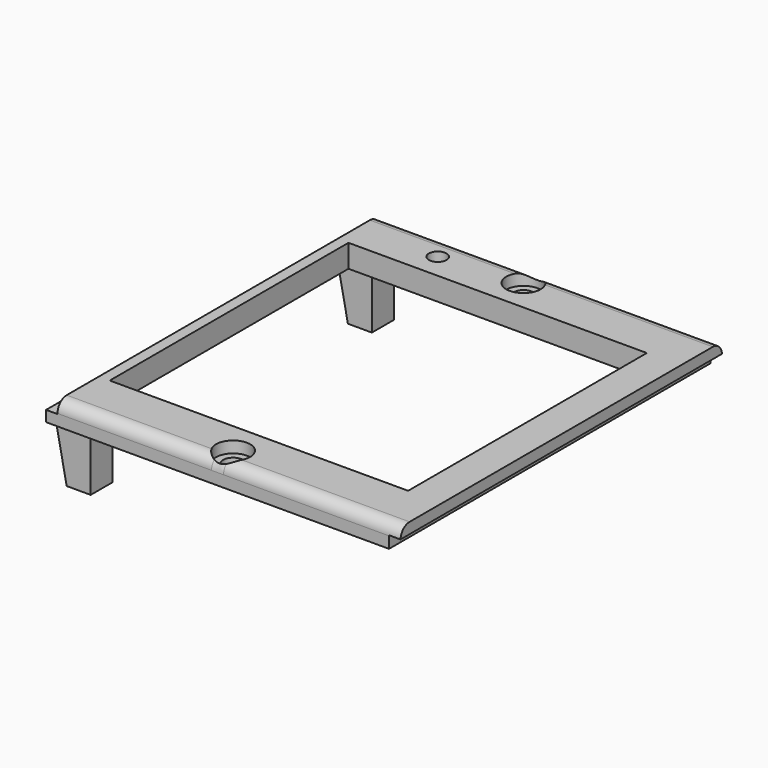
from build123d import *

# Parameters (mm, degrees)
SKETCH077_W          = 62
SKETCH077_H          = 70.3
SKETCH077_R          = 1.75
SKETCH077_R_2        = 1.55
SKETCH077_W_2        = 52.2
SKETCH077_H_2        = 52.2
PAD021_DEPTH         = 4
FILLET009_R          = 2
SKETCH078_W          = 2
SKETCH078_H          = 2.1
POCKET050_DEPTH      = 35.151
POCKET050_DEPTH_BACK = 35.151
SKETCH079_R          = 3
POCKET028_DEPTH      = 2.001
SKETCH081_W          = 4.202
SKETCH081_H          = 4.8
PAD023_DEPTH         = 10
CHAMFER003_SIZE2     = 9.99
CHAMFER003_SIZE      = 1.99


with BuildPart() as part:
    # Sketch077 → Pad021 (new body)
    with BuildSketch(Plane.XY):
        with Locations((1, 0)):
            Rectangle(SKETCH077_W, SKETCH077_H)
        with Locations((0, 31.75)):
            Circle(SKETCH077_R, mode=Mode.SUBTRACT)
        with Locations((0, -31.75)):
            Circle(SKETCH077_R, mode=Mode.SUBTRACT)
        with Locations((-14, 30.5)):
            Circle(SKETCH077_R_2, mode=Mode.SUBTRACT)
        Rectangle(SKETCH077_W_2, SKETCH077_H_2, mode=Mode.SUBTRACT)
    extrude(amount=PAD021_DEPTH)

    # Fillet009
    fillet009_edges = [part.edges().sort_by_distance(p)[0] for p in [
        (1, 35.15, 4),
        (1, -35.15, 4),
    ]]
    fillet(fillet009_edges, radius=FILLET009_R)

    # Sketch078 → Pocket050 (cut, two sides)
    with BuildSketch(Plane.XZ) as pocket050_sk:
        with Locations((-29, 2.95)):
            Rectangle(SKETCH078_W, SKETCH078_H)
        with Locations((31, 1.05)):
            Rectangle(SKETCH078_W, SKETCH078_H)
    extrude(amount=-POCKET050_DEPTH, mode=Mode.SUBTRACT)
    extrude(pocket050_sk.sketch, amount=POCKET050_DEPTH_BACK, mode=Mode.SUBTRACT)

    # Sketch079 → Pocket028 (cut, through all)
    with BuildSketch(Plane.XY.offset(2)):
        with Locations((0, -31.75)):
            Circle(SKETCH079_R)
        with Locations((0, 31.75)):
            Circle(SKETCH079_R)
    extrude(amount=POCKET028_DEPTH, mode=Mode.SUBTRACT)

    # Sketch081 → Pad023 (join)
    with BuildSketch(Plane.XY):
        with Locations((-25.899, 30.75)):
            Rectangle(SKETCH081_W, SKETCH081_H)
        with Locations((-25.899, -30.75)):
            Rectangle(SKETCH081_W, SKETCH081_H)
    extrude(amount=-PAD023_DEPTH)

    # Chamfer003
    chamfer003_edges = [part.edges().sort_by_distance(p)[0] for p in [
        (-28, 30.75, 0),
        (-28, -30.75, 0),
    ]]
    chamfer003_side = part.faces().sort_by_distance((-29.075766, 0, 0))[0]
    chamfer(chamfer003_edges, length=CHAMFER003_SIZE, length2=CHAMFER003_SIZE2, reference=chamfer003_side)


with BuildPart() as part_1:
    # Body046 placement: moved
    add(part.part.moved(Location((0, 0, 46))))


solid = part_1.part
